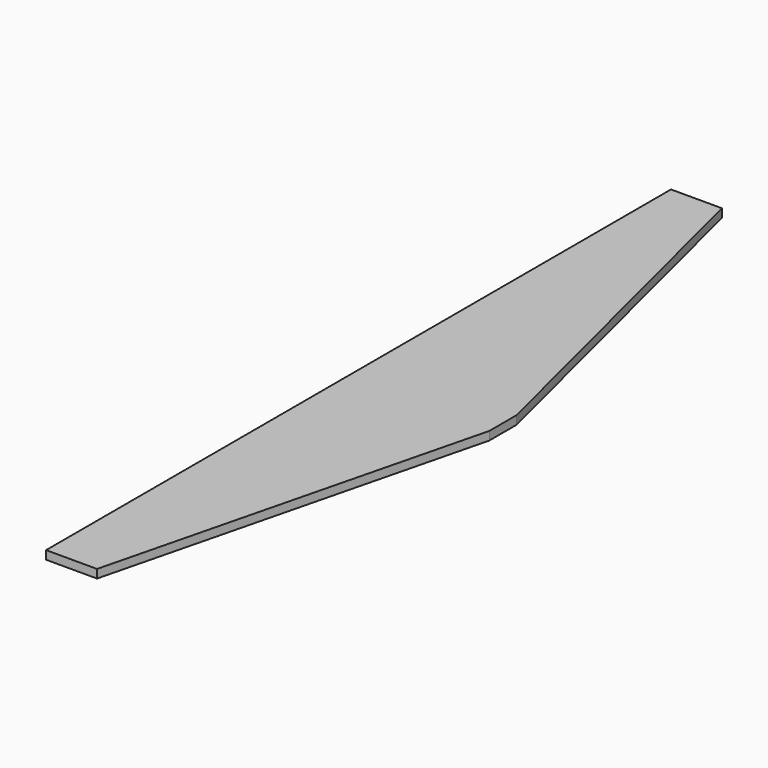
from build123d import *

# Parameters (mm, degrees)
F0_W     = 107.95
F0_H     = 12.7
F1_DEPTH = 6.35


with BuildPart() as f1:
    # F0 (on Top) → F1 (new body)
    with BuildSketch(Plane.XY):
        Polygon((-69.85, -279.4), (0, 0), (-107.95, 0), (-107.95, -279.4), align=None)
        Polygon((-107.95, 25.4), (0, 25.4), (-69.85, 304.8), (-107.95, 304.8), align=None)
        with Locations((-53.975, 19.05)):
            Rectangle(F0_W, F0_H)
        with Locations((-53.975, 6.35)):
            Rectangle(F0_W, F0_H)
    extrude(amount=F1_DEPTH)


solid = f1.part
